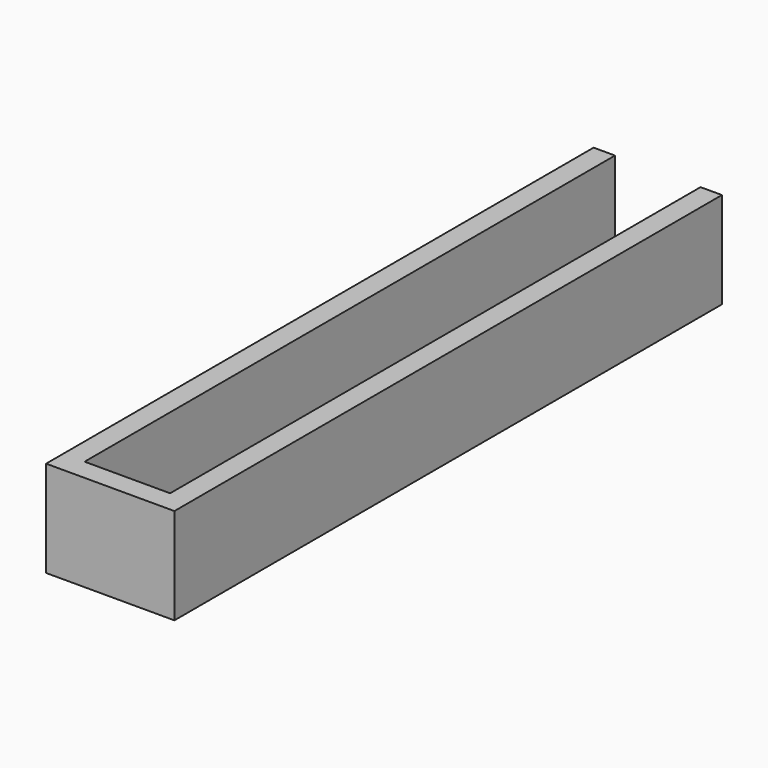
from build123d import *

# Parameters (mm, degrees)
F0_W     = 38.1
F0_H     = 203.2
F1_DEPTH = 3.175
F2_W     = 6.35
F2_H     = 196.85
F2_H_2   = 6.35
F2_W_2   = 25.4
F3_DEPTH = 25.4
F4_W     = 25.4
F4_H     = 152.4
F5_DEPTH = 3.176


with BuildPart() as f1:
    # F0 (on Top) → F1 (new body)
    with BuildSketch(Plane.XY):
        Rectangle(F0_W, F0_H)
    extrude(amount=F1_DEPTH)

    # F2 (on face) → F3 (join)
    with BuildSketch(Plane.XY.offset(3.175)):
        with Locations((-15.875, 3.175)):
            Rectangle(F2_W, F2_H)
        with Locations((-15.875, -98.425)):
            Rectangle(F2_W, F2_H_2)
        with Locations((0, -98.425)):
            Rectangle(F2_W_2, F2_H_2)
        with Locations((15.875, -98.425)):
            Rectangle(F2_W, F2_H_2)
        with Locations((15.875, 3.175)):
            Rectangle(F2_W, F2_H)
    extrude(amount=F3_DEPTH)

    # F4 (on face) → F5 (cut, through all)
    with BuildSketch(Plane.XY.offset(3.175)):
        Rectangle(F4_W, F4_H)
    extrude(amount=-F5_DEPTH, mode=Mode.SUBTRACT)


solid = f1.part
